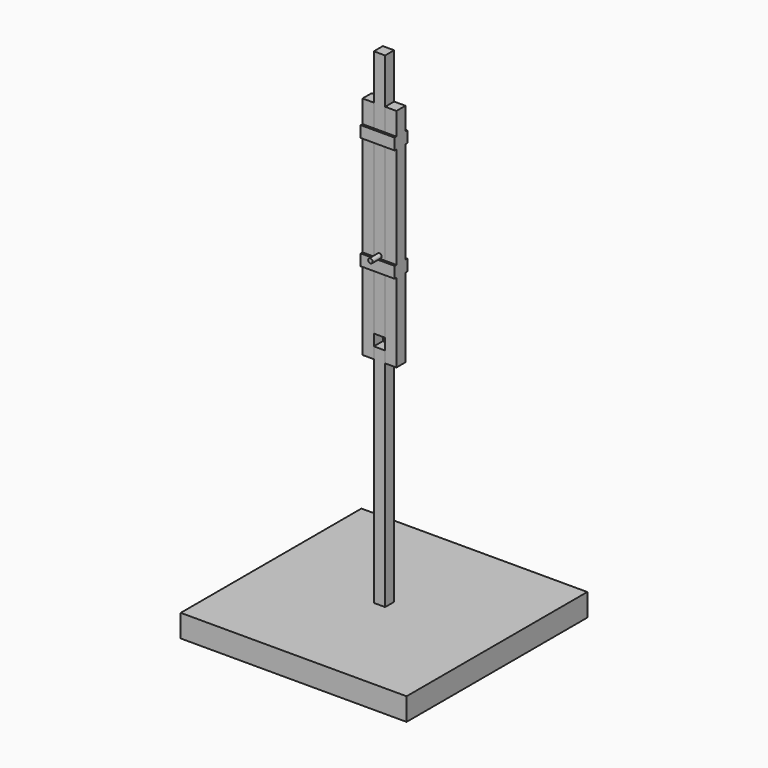
from build123d import *

# Parameters (mm, degrees)
SKETCH_W        = 200
SKETCH_H        = 200
PAD_DEPTH       = 20
SKETCH002_R     = 5
POCKET_DEPTH    = 18
SKETCH003_W     = 10
SKETCH003_H     = 10
PAD001_DEPTH    = 200
SKETCH004_R     = 4.9
PAD002_DEPTH    = 18
SKETCH005_R     = 2
POCKET001_DEPTH = 10.001
SKETCH006_W     = 30
SKETCH006_H     = 10
PAD003_DEPTH    = 200
SKETCH007_W     = 14
SKETCH007_H     = 10
PAD004_DEPTH    = 30
SKETCH008_W     = 10
SKETCH008_H     = 10
POCKET002_DEPTH = 200.001
SKETCH009_R     = 2
PAD005_DEPTH    = 30
SKETCH010_W     = 10
SKETCH010_H     = 10
PAD006_DEPTH    = 220
SKETCH011_R     = 2
PAD007_DEPTH    = 10


with BuildPart() as link0:
    # Sketch → Pad (new body)
    with BuildSketch(Plane.XY):
        Rectangle(SKETCH_W, SKETCH_H)
    extrude(amount=PAD_DEPTH)

    # Sketch002 → Pocket (cut)
    with BuildSketch(Plane.XY.offset(20)):
        Circle(SKETCH002_R)
    extrude(amount=-POCKET_DEPTH, mode=Mode.SUBTRACT)


with BuildPart() as link1:
    # Sketch003 → Pad001 (new body)
    with BuildSketch(Plane.XY.offset(20)):
        Rectangle(SKETCH003_W, SKETCH003_H)
    extrude(amount=PAD001_DEPTH)

    # Sketch004 → Pad002 (new body)
    with BuildSketch(Plane(origin=(0, 0, 20), x_dir=(1, 0, 0), z_dir=(0, 0, -1))):
        Circle(SKETCH004_R)
    extrude(amount=PAD002_DEPTH)

    # Sketch005 → Pocket001 (cut, through all)
    with BuildSketch(Plane(origin=(5, 0, 20), x_dir=(0, 1, 0), z_dir=(1, 0, 0))):
        with Locations((0, 195)):
            Circle(SKETCH005_R)
    extrude(amount=-POCKET001_DEPTH, mode=Mode.SUBTRACT)


with BuildPart() as link2:
    # Sketch006 → Pad003 (new body)
    with BuildSketch(Plane.XY.offset(210)):
        Rectangle(SKETCH006_W, SKETCH006_H)
    extrude(amount=PAD003_DEPTH)

    # Sketch007 → Pad004 (new body)
    with BuildSketch(Plane(origin=(15, 0, 210), x_dir=(0, 1, 0), z_dir=(1, 0, 0))):
        with Locations((0, 75)):
            Rectangle(SKETCH007_W, SKETCH007_H)
        with Locations((0, 175)):
            Rectangle(SKETCH007_W, SKETCH007_H)
    extrude(amount=-PAD004_DEPTH)

    # Sketch008 → Pocket002 (cut, through all)
    with BuildSketch(Plane.XY.offset(410)):
        Rectangle(SKETCH008_W, SKETCH008_H)
    extrude(amount=-POCKET002_DEPTH, mode=Mode.SUBTRACT)

    # Sketch009 → Pad005 (new body)
    with BuildSketch(Plane(origin=(15, 0, 210), x_dir=(0, 1, 0), z_dir=(1, 0, 0))):
        with Locations((0, 5)):
            Circle(SKETCH009_R)
    extrude(amount=-PAD005_DEPTH)


with BuildPart() as link3:
    # Sketch010 → Pad006 (new body)
    with BuildSketch(Plane.XY.offset(230)):
        Rectangle(SKETCH010_W, SKETCH010_H)
    extrude(amount=PAD006_DEPTH)

    # Sketch011 → Pad007 (new body)
    with BuildSketch(Plane(origin=(0, -5, 230), x_dir=(1, 0, 0), z_dir=(0, -1, 0))):
        with Locations((0, 62.283295)):
            Circle(SKETCH011_R)
    extrude(amount=PAD007_DEPTH)


solid = Compound([link0.part, link1.part, link2.part, link3.part])
